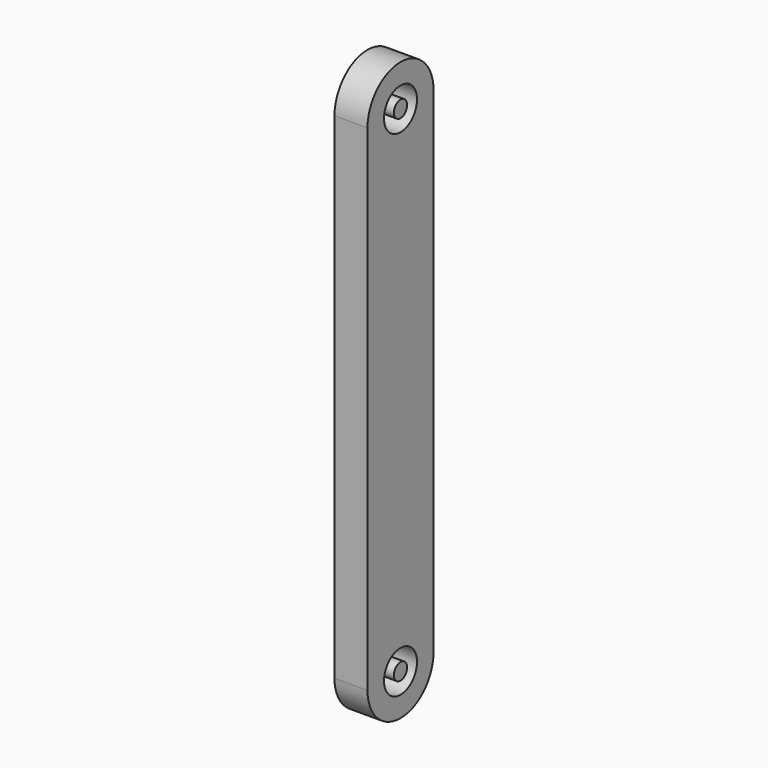
from build123d import *

# Parameters (mm, degrees)
F0_R     = 31.75
F1_DEPTH = 50.8
F2_R     = 12.7
F3_DEPTH = 50.8


with BuildPart() as f1:
    # F0 (on Right) → F1 (new body)
    with BuildSketch(Plane.YZ):
        with BuildLine():
            Line((0, 762), (0, 0))
            ThreePointArc((0, 0), (63.5, -63.5), (127, 0))
            Line((127, 0), (127, 762))
            ThreePointArc((127, 762), (63.5, 825.5), (0, 762))
        make_face()
        with Locations((63.5, 0)):
            Circle(F0_R, mode=Mode.SUBTRACT)
        with Locations((63.5, 762)):
            Circle(F0_R, mode=Mode.SUBTRACT)
    extrude(amount=F1_DEPTH)


with BuildPart() as f3:
    # F2 (on face) → F3 (new body)
    with BuildSketch(Plane.YZ.offset(50.8)):
        with Locations((63.5, 762)):
            Circle(F2_R)
        with Locations((63.5, 0)):
            Circle(F2_R)
    extrude(amount=-F3_DEPTH)


solid = Compound([f1.part, f3.part])
